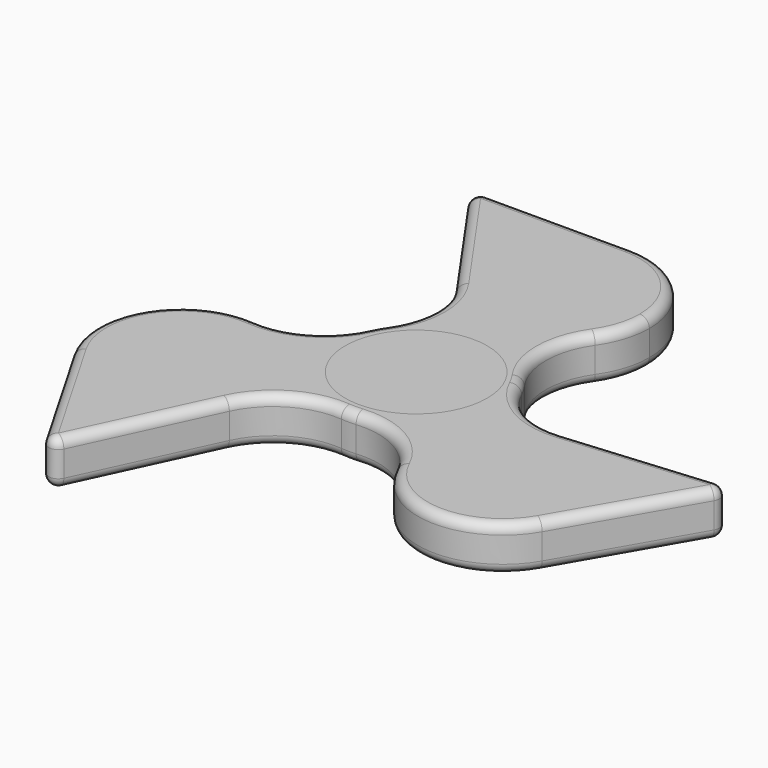
from build123d import *

# Parameters (mm, degrees)
F1_R     = 11.2
F2_DEPTH = 7
F0_R     = 12.5682545107
F3_R     = 1.5
F3_2_R   = 1.5


with BuildPart() as f2:
    # F1 (on Top) → F2 (new body)
    with BuildSketch(Plane.XY):
        with BuildLine():
            ThreePointArc((-36.4851881344, -21.0647331908), (-24.4795994364, -27.6522448109), (-13.0918477648, -20.0464193334))
            ThreePointArc((-13.0918477648, -20.0464193334), (-12.1669188016, -17.3234193818), (-11.8536528045, -14.4647331908))
            ThreePointArc((-11.8536528045, -14.4647331908), (-15.3227568816, -5.5456713266), (-23.90663228, -1.3146630801))
            ThreePointArc((-23.90663228, -1.3146630801), (-36.1873461962, -7.373832581), (-36.4851881344, -21.0647331908))
        make_face()
        with Locations((-25.0536528045, -14.4647331908)):
            Circle(F1_R, mode=Mode.SUBTRACT)
        with BuildLine():
            Line((-23.810748436, -43.017506706), (-13.0918477648, -20.0464193334))
            ThreePointArc((-13.0918477648, -20.0464193334), (-24.4795994364, -27.6522448109), (-36.4851881344, -21.0647331908))
            Line((-36.4851881344, -21.0647331908), (-23.810748436, -43.017506706))
        make_face()
        with Locations((-25.0536528045, -14.4647331908)):
            Circle(F1_R)
        with BuildLine():
            ThreePointArc((1.1470205244, -13.1500701107), (9.7308959228, -8.9190618643), (13.2, 0))
            ThreePointArc((13.2, 0), (12.8867340029, 2.858686191), (11.9618050396, 5.5816861425))
            ThreePointArc((11.9618050396, 5.5816861425), (11.43153533, 6.6), (10.8147845152, 7.5683839682))
            ThreePointArc((10.8147845152, 7.5683839682), (0, 13.2), (-10.8147845152, 7.5683839682))
            ThreePointArc((-10.8147845152, 7.5683839682), (-11.43153533, 6.6), (-11.9618050396, 5.5816861425))
            ThreePointArc((-11.9618050396, 5.5816861425), (-11.43153533, -6.6), (-1.1470205244, -13.1500701107))
            ThreePointArc((-1.1470205244, -13.1500701107), (0, -13.2), (1.1470205244, -13.1500701107))
        make_face()
        Circle(F1_R, mode=Mode.SUBTRACT)
        with BuildLine():
            ThreePointArc((38.2536528045, -14.4647331908), (33.9727146687, -4.733837268), (23.90663228, -1.3146630801))
            ThreePointArc((23.90663228, -1.3146630801), (13.6221174745, -7.8647331908), (13.0918477648, -20.0464193334))
            ThreePointArc((13.0918477648, -20.0464193334), (24.4795994364, -27.6522448109), (36.4851881344, -21.0647331908))
            ThreePointArc((36.4851881344, -21.0647331908), (37.8038737115, -17.8811445862), (38.2536528045, -14.4647331908))
        make_face()
        with Locations((25.0536528045, -14.4647331908)):
            Circle(F1_R, mode=Mode.SUBTRACT)
        with BuildLine():
            ThreePointArc((-10.8147845152, 21.3610824135), (0, 15.7294663817), (10.8147845152, 21.3610824135))
            ThreePointArc((10.8147845152, 21.3610824135), (12.5895821138, 24.961794243), (13.2, 28.9294663817))
            ThreePointArc((13.2, 28.9294663817), (9.3338095117, 38.2632758933), (0, 42.1294663817))
            ThreePointArc((0, 42.1294663817), (-11.7077467597, 35.0260773919), (-10.8147845152, 21.3610824135))
        make_face()
        with Locations((0, 28.9294663817)):
            Circle(F1_R, mode=Mode.SUBTRACT)
        with BuildLine():
            ThreePointArc((11.9618050396, 5.5816861425), (12.8867340029, 2.858686191), (13.2, 0))
            ThreePointArc((13.2, 0), (9.7308959228, -8.9190618643), (1.1470205244, -13.1500701107))
            ThreePointArc((1.1470205244, -13.1500701107), (8.2061442682, -14.7160075749), (13.0918477648, -20.0464193334))
            ThreePointArc((13.0918477648, -20.0464193334), (13.6221174745, -7.8647331908), (23.90663228, -1.3146630801))
            ThreePointArc((23.90663228, -1.3146630801), (16.8475085363, 0.2512743841), (11.9618050396, 5.5816861425))
        make_face()
        with BuildLine():
            ThreePointArc((-13.0918477648, -20.0464193334), (-8.2061442682, -14.7160075749), (-1.1470205244, -13.1500701107))
            ThreePointArc((-1.1470205244, -13.1500701107), (-11.43153533, -6.6), (-11.9618050396, 5.5816861425))
            ThreePointArc((-11.9618050396, 5.5816861425), (-16.8475085363, 0.2512743841), (-23.90663228, -1.3146630801))
            ThreePointArc((-23.90663228, -1.3146630801), (-15.3227568816, -5.5456713266), (-11.8536528045, -14.4647331908))
            ThreePointArc((-11.8536528045, -14.4647331908), (-12.1669188016, -17.3234193818), (-13.0918477648, -20.0464193334))
        make_face()
        with Locations((0, 28.9294663817)):
            Circle(F1_R)
        with BuildLine():
            Line((-25.3488793969, 42.1294663817), (-10.8147845152, 21.3610824135))
            ThreePointArc((-10.8147845152, 21.3610824135), (-11.7077467597, 35.0260773919), (0, 42.1294663817))
            Line((0, 42.1294663817), (-25.3488793969, 42.1294663817))
        make_face()
        with BuildLine():
            ThreePointArc((-10.8147845152, 7.5683839682), (0, 13.2), (10.8147845152, 7.5683839682))
            ThreePointArc((10.8147845152, 7.5683839682), (8.6413642681, 14.4647331908), (10.8147845152, 21.3610824135))
            ThreePointArc((10.8147845152, 21.3610824135), (0, 15.7294663817), (-10.8147845152, 21.3610824135))
            ThreePointArc((-10.8147845152, 21.3610824135), (-8.6413642681, 14.4647331908), (-10.8147845152, 7.5683839682))
        make_face()
        with Locations((25.0536528045, -14.4647331908)):
            Circle(F1_R)
        with BuildLine():
            Line((49.1596278329, 0.8880403244), (23.90663228, -1.3146630801))
            ThreePointArc((23.90663228, -1.3146630801), (33.9727146687, -4.733837268), (38.2536528045, -14.4647331908))
            ThreePointArc((38.2536528045, -14.4647331908), (37.8038737115, -17.8811445862), (36.4851881344, -21.0647331908))
            Line((36.4851881344, -21.0647331908), (49.1596278329, 0.8880403244))
        make_face()
        Circle(F1_R)
    extrude(amount=F2_DEPTH)

    # F3
    f3_edges = [f2.edges().sort_by_distance(p)[0] for p in [
        (-30.147968, -32.04112, 7),
        (-18.451298, -31.531963, 7),
        (-8.206144, -14.716008, 7),
        (0, -13.2, 7),
        (8.206144, -14.716008, 7),
        (24.479599, -27.652245, 7),
        (42.822408, -10.088346, 7),
        (36.53313, -0.213311, 7),
        (16.847509, 0.251274, 7),
        (11.431535, 6.6, 7),
        (8.641364, 14.464733, 7),
        (11.707747, 35.026077, 7),
        (-12.67444, 42.129466, 7),
        (-18.081832, 31.745274, 7),
        (-8.641364, 14.464733, 7),
        (-11.431535, 6.6, 7),
        (-16.847509, 0.251274, 7),
        (-36.187346, -7.373833, 7),
        (-18.451298, -31.531963, 0),
        (-8.206144, -14.716008, 0),
        (8.206144, -14.716008, 0),
        (1.147021, -13.15007, 3.5),
        (0, -13.2, 0),
        (24.479599, -27.652245, 0),
        (36.485188, -21.064733, 3.5),
        (42.822408, -10.088346, 0),
        (49.159628, 0.88804, 3.5),
        (-23.810748, -43.017507, 3.5),
        (-13.091848, -20.046419, 3.5),
        (10.814785, 7.568384, 3.5),
        (10.814785, 21.361082, 3.5),
        (8.641364, 14.464733, 0),
        (11.707747, 35.026077, 0),
        (23.906632, -1.314663, 3.5),
        (0, 42.129466, 3.5),
        (-36.187346, -7.373833, 0),
        (-23.906632, -1.314663, 3.5),
        (-36.485188, -21.064733, 3.5),
        (16.847509, 0.251274, 0),
        (-25.348879, 42.129466, 3.5),
        (-18.081832, 31.745274, 0),
        (36.53313, -0.213311, 0),
        (-12.67444, 42.129466, 0),
        (-11.961805, 5.581686, 3.5),
        (11.961805, 5.581686, 3.5),
        (-10.814785, 21.361082, 3.5),
        (13.091848, -20.046419, 3.5),
        (11.431535, 6.6, 0),
        (-30.147968, -32.04112, 0),
        (-16.847509, 0.251274, 0),
        (-11.431535, 6.6, 0),
        (-8.641364, 14.464733, 0),
        (-1.147021, -13.15007, 3.5),
        (-10.814785, 7.568384, 3.5),
    ]]
    fillet(f3_edges, radius=F3_R)


with BuildPart() as f2b:
    # F0 (on Top) → F2, piece 2 (new body)
    with BuildSketch(Plane.XY):
        Circle(F0_R)
    extrude(amount=F2_DEPTH)

    # F3#2
    f3_2_edges = [f2b.edges().sort_by_distance(p)[0] for p in [
        (-12.568255, 0, 7),
        (-12.568255, 0, 0),
    ]]
    fillet(f3_2_edges, radius=F3_2_R)


solid = Compound([f2.part, f2b.part])
